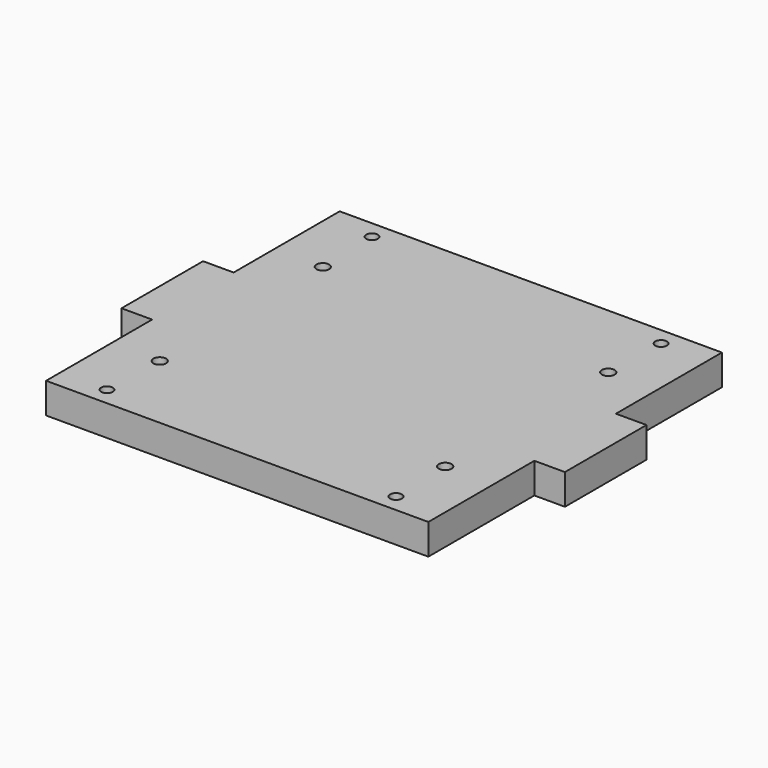
from build123d import *

# Parameters (mm, degrees)
F0_W     = 6
F0_H     = 20
F1_DEPTH = 6
F2_R     = 2.25
F2_R_2   = 1.25
F2_R_3   = 1.143
F3_DEPTH = 3
F4_DEPTH = 6


with BuildPart() as f1:
    # F0 (on Top) → F1 (new body)
    with BuildSketch(Plane.XY):
        Polygon((-37.5, -36), (37.5, -36), (37.5, -10), (37.5, 10), (37.5, 36), (-37.5, 36), (-37.5, 10), (-37.5, -10), align=None)
        with Locations((40.5, 0)):
            Rectangle(F0_W, F0_H)
        with Locations((-40.5, 0)):
            Rectangle(F0_W, F0_H)
    extrude(amount=F1_DEPTH)

    # F2 (on face) → F3 (cut)
    with BuildSketch(Plane(origin=(0, 0, 0), x_dir=(1, 0, 0), z_dir=(0, 0, -1))):
        with Locations((-28, -20)):
            Circle(F2_R)
        with Locations((-28, -20)):
            Circle(F2_R_2, mode=Mode.SUBTRACT)
        with Locations((28, -20)):
            Circle(F2_R)
        with Locations((28, -20)):
            Circle(F2_R_2, mode=Mode.SUBTRACT)
        with Locations((-28, 20)):
            Circle(F2_R)
        with Locations((-28, 20)):
            Circle(F2_R_2, mode=Mode.SUBTRACT)
        with Locations((28, 20)):
            Circle(F2_R)
        with Locations((28, 20)):
            Circle(F2_R_2, mode=Mode.SUBTRACT)
        with Locations((-28.357, -32.5)):
            Circle(F2_R)
        with Locations((-28.357, -32.5)):
            Circle(F2_R_3, mode=Mode.SUBTRACT)
        with Locations((28.357, -32.5)):
            Circle(F2_R)
        with Locations((28.357, -32.5)):
            Circle(F2_R_3, mode=Mode.SUBTRACT)
        with Locations((-28.357, 32.5)):
            Circle(F2_R)
        with Locations((-28.357, 32.5)):
            Circle(F2_R_3, mode=Mode.SUBTRACT)
        with Locations((28.357, 32.5)):
            Circle(F2_R)
        with Locations((28.357, 32.5)):
            Circle(F2_R_3, mode=Mode.SUBTRACT)
    extrude(amount=-F3_DEPTH, mode=Mode.SUBTRACT)

    # F2 (on face) → F4 (cut, through all)
    with BuildSketch(Plane(origin=(0, 0, 0), x_dir=(1, 0, 0), z_dir=(0, 0, -1))):
        with Locations((-28, 20)):
            Circle(F2_R_2)
        with Locations((-28, -20)):
            Circle(F2_R_2)
        with Locations((28, -20)):
            Circle(F2_R_2)
        with Locations((28, 20)):
            Circle(F2_R_2)
        with Locations((-28.357, -32.5)):
            Circle(F2_R_3)
        with Locations((28.357, -32.5)):
            Circle(F2_R_3)
        with Locations((28.357, 32.5)):
            Circle(F2_R_3)
        with Locations((-28.357, 32.5)):
            Circle(F2_R_3)
    extrude(amount=-F4_DEPTH, mode=Mode.SUBTRACT)


solid = f1.part
